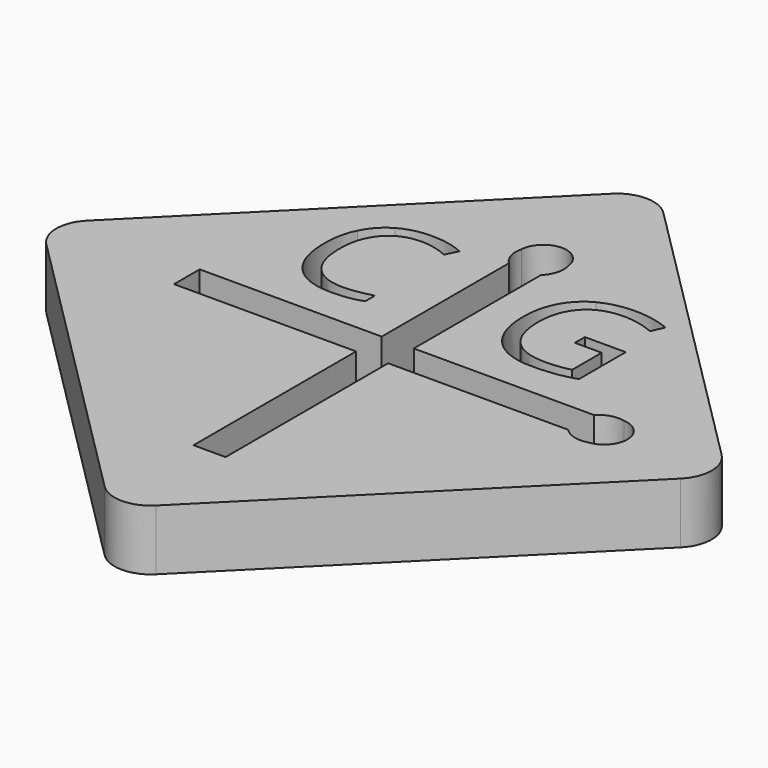
from build123d import *

# Parameters (mm, degrees)
F1_DEPTH = 2.5
F2_R     = 0.85
F3_DEPTH = 12.5


with BuildPart() as f1:
    # F0 (on Top) → F1 (new body)
    with BuildSketch(Plane.XY):
        with BuildLine():
            Line((13.081475452, -13.081475452), (1.0606601718, -1.0606601718))
            ThreePointArc((1.0606601718, -1.0606601718), (0, -0.6213203436), (-1.0606601718, -1.0606601718))
            Line((-1.0606601718, -1.0606601718), (-13.081475452, -13.081475452))
            ThreePointArc((-13.081475452, -13.081475452), (-13.5208152802, -14.1421356237), (-13.081475452, -15.2027957955))
            Line((-13.081475452, -15.2027957955), (-1.0606601718, -27.2236110757))
            ThreePointArc((-1.0606601718, -27.2236110757), (0, -27.6629509039), (1.0606601718, -27.2236110757))
            Line((1.0606601718, -27.2236110757), (13.081475452, -15.2027957955))
            ThreePointArc((13.081475452, -15.2027957955), (13.5208152802, -14.1421356237), (13.081475452, -13.081475452))
        make_face()
        with BuildLine():
            add(Edge.make_bspline(
                [(-2.6307656823, -7.7655284531), (-3.193916724, -7.5018565781), (-3.7570677656, -7.5018565781)],
                knots=[0, 0, 0, 1, 1, 1], degree=2))
            add(Edge.make_bspline(
                [(-3.7570677656, -7.5018565781), (-4.5741250573, -7.5018565781), (-5.0472153351, -8.0460189045)],
                knots=[0, 0, 0, 1, 1, 1], degree=2))
            add(Edge.make_bspline(
                [(-5.0472153351, -8.0460189045), (-5.5203056128, -8.5901812309), (-5.5203056128, -9.5363617864)],
                knots=[0, 0, 0, 1, 1, 1], degree=2))
            add(Edge.make_bspline(
                [(-5.5203056128, -9.5363617864), (-5.5203056128, -10.5085840087), (-5.0640339115, -11.0397255017)],
                knots=[0, 0, 0, 1, 1, 1], degree=2))
            add(Edge.make_bspline(
                [(-5.0640339115, -11.0397255017), (-4.6077622101, -11.5708669948), (-3.7635781823, -11.5708669948)],
                knots=[0, 0, 0, 1, 1, 1], degree=2))
            add(Edge.make_bspline(
                [(-3.7635781823, -11.5708669948), (-3.2449149878, -11.5708669948), (-2.5797674184, -11.3842350503)],
                knots=[0, 0, 0, 1, 1, 1], degree=2))
            Line((-2.5797674184, -11.3842350503), (-2.5797674184, -11.888792342))
            add(Edge.make_bspline(
                [(-2.5797674184, -11.888792342), (-3.0951754045, -12.0830197725), (-3.8514688073, -12.0830197725)],
                knots=[0, 0, 0, 1, 1, 1], degree=2))
            add(Edge.make_bspline(
                [(-3.8514688073, -12.0830197725), (-4.9463038767, -12.0830197725), (-5.541464467, -11.4178722031)],
                knots=[0, 0, 0, 1, 1, 1], degree=2))
            add(Edge.make_bspline(
                [(-5.541464467, -11.4178722031), (-6.1366250573, -10.7527246337), (-6.1366250573, -9.5287663003)],
                knots=[0, 0, 0, 1, 1, 1], degree=2))
            add(Edge.make_bspline(
                [(-6.1366250573, -9.5287663003), (-6.1366250573, -8.7627072725), (-5.850166724, -8.1865353975)],
                knots=[0, 0, 0, 1, 1, 1], degree=2))
            add(Edge.make_bspline(
                [(-5.850166724, -8.1865353975), (-5.5637083906, -7.6103635225), (-5.0228012726, -7.2984060573)],
                knots=[0, 0, 0, 1, 1, 1], degree=2))
            add(Edge.make_bspline(
                [(-5.0228012726, -7.2984060573), (-4.4818941545, -6.986448592), (-3.7494722795, -6.986448592)],
                knots=[0, 0, 0, 1, 1, 1], degree=2))
            add(Edge.make_bspline(
                [(-3.7494722795, -6.986448592), (-2.9703924184, -6.986448592), (-2.3866250573, -7.2707367864)],
                knots=[0, 0, 0, 1, 1, 1], degree=2))
            Line((-2.3866250573, -7.2707367864), (-2.6307656823, -7.7655284531))
        make_face(mode=Mode.SUBTRACT)
        with BuildLine():
            Line((-8.1334756687, -14.8039748892), (-8.1334756687, -13.4802963582))
            Line((-8.1334756687, -13.4802963582), (-0.6236797201, -13.4802963582))
            Line((-0.6236797201, -13.4802963582), (-0.6236797201, -6.9198086858))
            ThreePointArc((-0.6236797201, -6.9198086858), (-0.9032194318, -6.4583786209), (-0.9135835525, -5.9189782686))
            ThreePointArc((-0.9135835525, -5.9189782686), (0.0168397474, -5.0141534426), (0.9868078824, -5.876451129))
            ThreePointArc((0.9868078824, -5.876451129), (0.9900106564, -6.4384308628), (0.6999988109, -6.9198086858))
            Line((0.6999988109, -6.9198086858), (0.6999988109, -13.4802963582))
            Line((0.6999988109, -13.4802963582), (8.1334756687, -13.4802963582))
            ThreePointArc((8.1334756687, -13.4802963582), (8.5949057336, -13.2007566465), (9.134306086, -13.1903925258))
            ThreePointArc((9.134306086, -13.1903925258), (10.0391309119, -14.1208158258), (9.1768332255, -15.0907839607))
            ThreePointArc((9.1768332255, -15.0907839607), (8.6148534917, -15.0939867347), (8.1334756687, -14.8039748892))
            Line((8.1334756687, -14.8039748892), (0.6999988109, -14.8039748892))
            Line((0.6999988109, -14.8039748892), (0.6999988109, -23.1867600232))
            Line((0.6999988109, -23.1867600232), (-0.6236797201, -23.1867600232))
            Line((-0.6236797201, -23.1867600232), (-0.6236797201, -14.8039748892))
            Line((-0.6236797201, -14.8039748892), (-8.1334756687, -14.8039748892))
        make_face(mode=Mode.SUBTRACT)
        with BuildLine():
            Line((4.5060936962, -9.9324142291), (4.5060936962, -9.417006243))
            Line((4.5060936962, -9.417006243), (6.1912065434, -9.417006243))
            Line((6.1912065434, -9.417006243), (6.1912065434, -11.8280305486))
            add(Edge.make_bspline(
                [(6.1912065434, -11.8280305486), (5.7973263351, -11.9538986041), (5.3904252934, -12.0184602361)],
                knots=[0, 0, 0, 1, 1, 1], degree=2))
            add(Edge.make_bspline(
                [(5.3904252934, -12.0184602361), (4.9835242517, -12.083021868), (4.4474999462, -12.083021868)],
                knots=[0, 0, 0, 1, 1, 1], degree=2))
            add(Edge.make_bspline(
                [(4.4474999462, -12.083021868), (3.3222829323, -12.083021868), (2.6951127934, -11.4129914861)],
                knots=[0, 0, 0, 1, 1, 1], degree=2))
            add(Edge.make_bspline(
                [(2.6951127934, -11.4129914861), (2.0679426545, -10.7429611041), (2.0679426545, -9.5363638819)],
                knots=[0, 0, 0, 1, 1, 1], degree=2))
            add(Edge.make_bspline(
                [(2.0679426545, -9.5363638819), (2.0679426545, -8.762709368), (2.3782725156, -8.1811121458)],
                knots=[0, 0, 0, 1, 1, 1], degree=2))
            add(Edge.make_bspline(
                [(2.3782725156, -8.1811121458), (2.6886023767, -7.5995149236), (3.2718272031, -7.2929828055)],
                knots=[0, 0, 0, 1, 1, 1], degree=2))
            add(Edge.make_bspline(
                [(3.2718272031, -7.2929828055), (3.8550520295, -6.9864506875), (4.637387099, -6.9864506875)],
                knots=[0, 0, 0, 1, 1, 1], degree=2))
            add(Edge.make_bspline(
                [(4.637387099, -6.9864506875), (5.4316579323, -6.9864506875), (6.1163367517, -7.2772492986)],
                knots=[0, 0, 0, 1, 1, 1], degree=2))
            Line((6.1163367517, -7.2772492986), (5.8928124462, -7.786146868))
            add(Edge.make_bspline(
                [(5.8928124462, -7.786146868), (5.2211544601, -7.5018586736), (4.6004947378, -7.5018586736)],
                knots=[0, 0, 0, 1, 1, 1], degree=2))
            add(Edge.make_bspline(
                [(4.6004947378, -7.5018586736), (3.6955468212, -7.5018586736), (3.1866492517, -8.0405956527)],
                knots=[0, 0, 0, 1, 1, 1], degree=2))
            add(Edge.make_bspline(
                [(3.1866492517, -8.0405956527), (2.6777516823, -8.5793326319), (2.6777516823, -9.5363638819)],
                knots=[0, 0, 0, 1, 1, 1], degree=2))
            add(Edge.make_bspline(
                [(2.6777516823, -9.5363638819), (2.6777516823, -10.540053118), (3.1676605365, -11.0587163125)],
                knots=[0, 0, 0, 1, 1, 1], degree=2))
            add(Edge.make_bspline(
                [(3.1676605365, -11.0587163125), (3.6575693906, -11.5773795069), (4.6070051545, -11.5773795069)],
                knots=[0, 0, 0, 1, 1, 1], degree=2))
            add(Edge.make_bspline(
                [(4.6070051545, -11.5773795069), (5.1224131406, -11.5773795069), (5.613949599, -11.458021868)],
                knots=[0, 0, 0, 1, 1, 1], degree=2))
            Line((5.613949599, -11.458021868), (5.613949599, -9.9324142291))
            Line((5.613949599, -9.9324142291), (4.5060936962, -9.9324142291))
        make_face(mode=Mode.SUBTRACT)
    extrude(amount=F1_DEPTH)

    # F2 (on Right) → F3 (cut, symmetric)
    with BuildSketch(Plane.YZ):
        with Locations((-2.4908210296, 1.292226194)):
            Circle(F2_R)
    extrude(amount=F3_DEPTH, both=True, mode=Mode.SUBTRACT)


solid = f1.part
